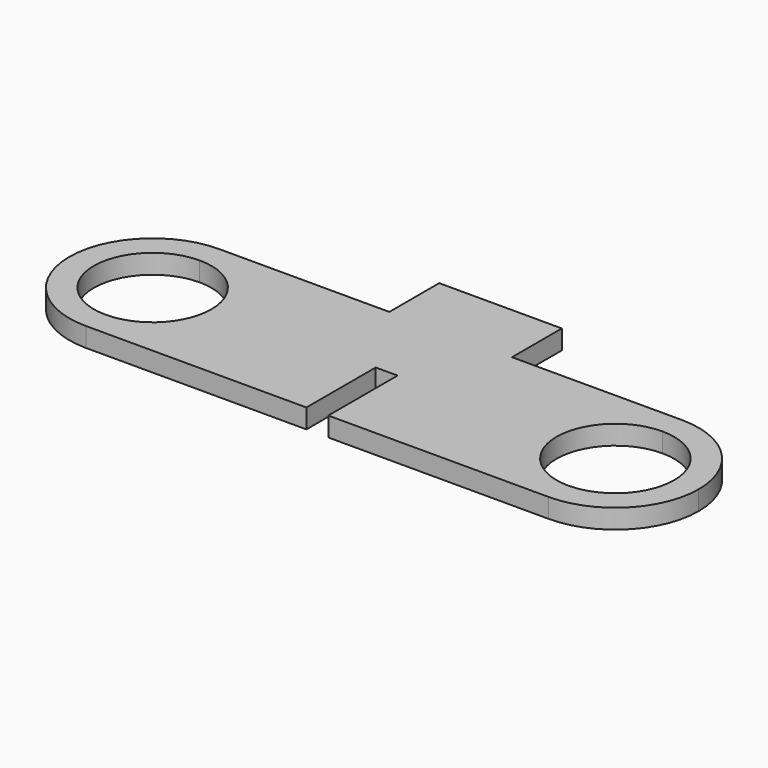
from build123d import *

# Parameters (mm, degrees)
F0_W     = 9.52
F0_H     = 4.8375
F1_DEPTH = 1.5
F2_W     = 1.7
F2_H     = 6.7225
F3_DEPTH = 1.501


with BuildPart() as f1:
    # F0 (on Top) → F1 (new body)
    with BuildSketch(Plane.XY):
        with Locations((0, 8.88625)):
            Rectangle(F0_W, F0_H)
        with BuildLine():
            ThreePointArc((17.96, -4.5625), (13.3975, 0), (17.96, 4.5625))
            Line((17.96, 4.5625), (17.96, 6.4675))
            ThreePointArc((17.96, 6.4675), (11.4925, 0), (17.96, -6.4675))
            Line((17.96, -6.4675), (17.96, -4.5625))
        make_face()
        with BuildLine():
            Line((-17.96, -4.5625), (-17.96, -6.4675))
            ThreePointArc((-17.96, -6.4675), (-13.386787, -4.573213), (-11.4925, 0))
            ThreePointArc((-11.4925, 0), (-13.386787, 4.573213), (-17.96, 6.4675))
            Line((-17.96, 6.4675), (-17.96, 4.5625))
            ThreePointArc((-17.96, 4.5625), (-14.733825, 3.226175), (-13.3975, 0))
            ThreePointArc((-13.3975, 0), (-14.733825, -3.226175), (-17.96, -4.5625))
        make_face()
        with BuildLine():
            ThreePointArc((17.96, 4.5625), (21.186175, 3.226175), (22.5225, 0))
            ThreePointArc((22.5225, 0), (21.186175, -3.226175), (17.96, -4.5625))
            Line((17.96, -4.5625), (17.96, -6.4675))
            ThreePointArc((17.96, -6.4675), (22.533213, -4.573213), (24.4275, 0))
            ThreePointArc((24.4275, 0), (22.533213, 4.573213), (17.96, 6.4675))
            Line((17.96, 6.4675), (17.96, 4.5625))
        make_face()
        with BuildLine():
            ThreePointArc((-17.96, 6.4675), (-24.4275, 0), (-17.96, -6.4675))
            Line((-17.96, -6.4675), (-17.96, -4.5625))
            ThreePointArc((-17.96, -4.5625), (-22.5225, 0), (-17.96, 4.5625))
            Line((-17.96, 4.5625), (-17.96, 6.4675))
        make_face()
        with BuildLine():
            ThreePointArc((17.96, -6.4675), (11.4925, 0), (17.96, 6.4675))
            Line((17.96, 6.4675), (4.76, 6.4675))
            Line((4.76, 6.4675), (-4.76, 6.4675))
            Line((-4.76, 6.4675), (-17.96, 6.4675))
            ThreePointArc((-17.96, 6.4675), (-13.386787, 4.573213), (-11.4925, 0))
            ThreePointArc((-11.4925, 0), (-13.386787, -4.573213), (-17.96, -6.4675))
            Line((-17.96, -6.4675), (17.96, -6.4675))
        make_face()
    extrude(amount=F1_DEPTH)

    # F2 (on face) → F3 (cut, through all)
    with BuildSketch(Plane.XY.offset(1.5)):
        with Locations((0, -3.10625)):
            Rectangle(F2_W, F2_H)
    extrude(amount=-F3_DEPTH, mode=Mode.SUBTRACT)


solid = f1.part
